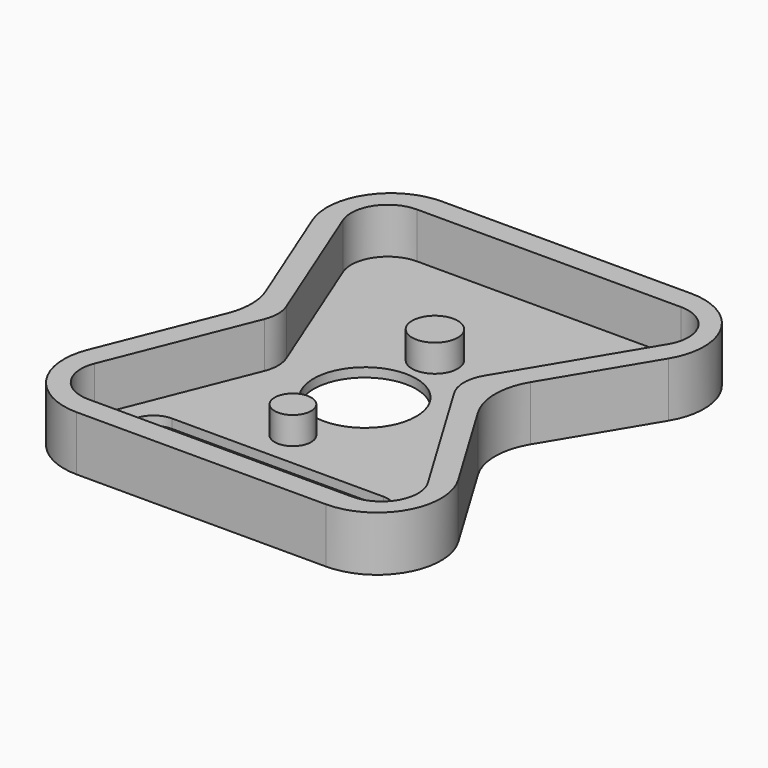
from build123d import *

# Parameters (mm, degrees)
F1_DEPTH  = 12
F3_DEPTH  = 10
F4_R      = 4
F4_R_2    = 5
F5_DEPTH  = 6
F6_R      = 8
F7_R      = 14
F8_R      = 11.235347
F9_DEPTH  = 25
F10_W     = 56.325583
F10_H     = 14
F12_DEPTH = 25
F13_R     = 5


with BuildPart() as f1:
    # F0 (on Top) → F1 (new body)
    with BuildSketch(Plane.XY):
        Polygon((20, 50), (0, 0), (100, 0), (70, 50), (100, 100), (0, 100), align=None)
    extrude(amount=F1_DEPTH)

    # F2 (on face) → F3 (cut)
    with BuildSketch(Plane.XY.offset(12)):
        Polygon((91.169048, 5), (64.169048, 50), (91.169048, 95), (7.385165, 95), (25.385165, 50), (7.385165, 5), align=None)
    extrude(amount=-F3_DEPTH, mode=Mode.SUBTRACT)

    # F4 (on face) → F5 (join)
    with BuildSketch(Plane.XY.offset(2)):
        with Locations((42.898408, 31.41522)):
            Circle(F4_R)
        with Locations((44.494253, 68.297007)):
            Circle(F4_R_2)
    extrude(amount=F5_DEPTH)

    # F6
    f6_edges = [f1.edges().sort_by_distance(p)[0] for p in [
        (7.385165, 95, 7),
        (25.385165, 50, 7),
        (7.385165, 5, 7),
        (91.169048, 95, 7),
        (64.169048, 50, 7),
        (91.169048, 5, 7),
    ]]
    fillet(f6_edges, radius=F6_R)

    # F7
    f7_edges = [f1.edges().sort_by_distance(p)[0] for p in [
        (20, 50, 6),
        (0, 100, 6),
        (100, 100, 6),
        (70, 50, 6),
        (100, 0, 6),
        (0, 0, 6),
    ]]
    fillet(f7_edges, radius=F7_R)

    # F8 (on face) → F9 (cut)
    with BuildSketch(Plane.XY.offset(2)):
        with Locations((43.759387, 50.048411)):
            Circle(F8_R)
    extrude(amount=-F9_DEPTH, mode=Mode.SUBTRACT)

    # F10 (on face) → F12 (cut)
    with BuildSketch(Plane.XY.offset(2)):
        with Locations((45.957904, 16.376337)):
            Rectangle(F10_W, F10_H)
    extrude(amount=-F12_DEPTH, mode=Mode.SUBTRACT)

    # F13
    f13_edges = [f1.edges().sort_by_distance(p)[0] for p in [
        (17.795112, 23.376337, 1),
        (74.120695, 23.376337, 1),
        (74.120695, 9.376337, 1),
        (17.795112, 9.376337, 1),
    ]]
    fillet(f13_edges, radius=F13_R)


solid = f1.part
